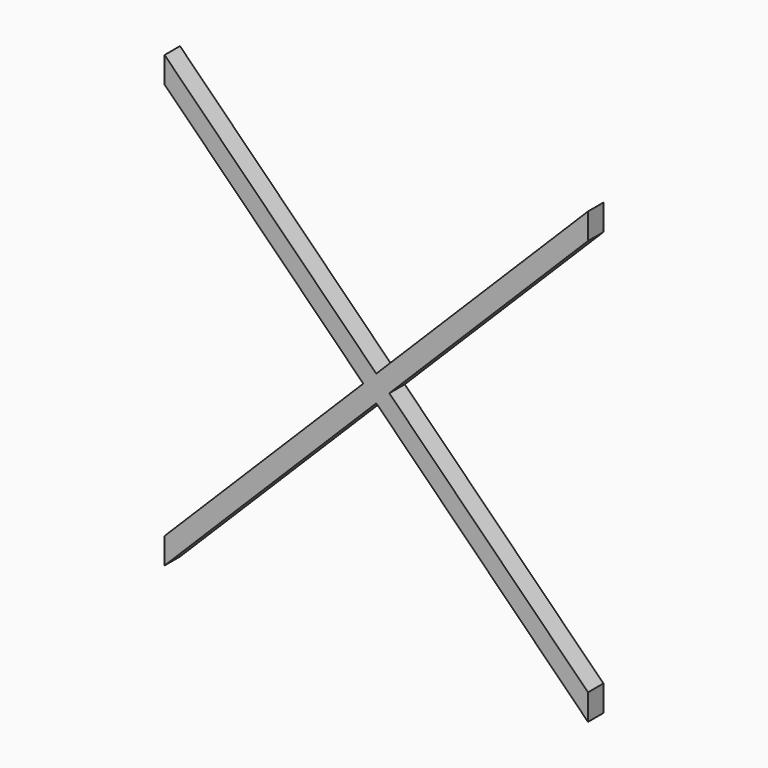
from build123d import *

# Parameters (mm, degrees)
F1_DEPTH = 12.7


with BuildPart() as f1:
    # F0 (on Front) → F1 (new body)
    with BuildSketch(Plane.XZ):
        Polygon((0, 8.5898101), (0, 0), (135.4050932787, 135.4050932787), (131.1101882287, 139.6999983287), align=None)
        Polygon((135.4050932787, 135.4050932787), (0, 0), (0, -8.5898101), (8.5898101, 0), (139.6999983287, 131.1101882287), align=None)
        Polygon((131.1101882287, 139.6999983287), (135.4050932787, 135.4050932787), (139.6999983287, 139.6999983287), (135.4050932787, 143.9949033787), align=None)
        Polygon((139.6999983287, 139.6999983287), (135.4050932787, 135.4050932787), (139.6999983287, 131.1101882287), (143.9949033787, 135.4050932787), align=None)
        Polygon((0, 270.8101865575), (131.1101882287, 139.6999983287), (135.4050932787, 143.9949033787), (0, 279.3999966575), align=None)
        Polygon((143.9949033787, 143.9949033787), (139.6999983287, 139.6999983287), (143.9949033787, 135.4050932787), (148.2898084287, 139.6999983287), align=None)
        Polygon((135.4050932787, 143.9949033787), (139.6999983287, 139.6999983287), (143.9949033787, 143.9949033787), (139.6999983287, 148.2898084287), align=None)
        Polygon((143.9949033787, 135.4050932787), (139.6999983287, 131.1101882287), (270.8101865575, 0), (279.3999966575, -8.5898101), (279.3999966575, 0), align=None)
        Polygon((0, 279.3999966575), (135.4050932787, 143.9949033787), (139.6999983287, 148.2898084287), (4.29490505, 283.6949017075), (0, 287.9898067575), align=None)
        Polygon((148.2898084287, 139.6999983287), (143.9949033787, 135.4050932787), (279.3999966575, 0), (279.3999966575, 8.5898101), align=None)
        Polygon((139.6999983287, 148.2898084287), (143.9949033787, 143.9949033787), (279.3999966575, 279.3999966575), (279.3999966575, 287.9898067575), (275.1050916075, 283.6949017075), align=None)
        Polygon((279.3999966575, 279.3999966575), (143.9949033787, 143.9949033787), (148.2898084287, 139.6999983287), (279.3999966575, 270.8101865575), align=None)
    extrude(amount=F1_DEPTH)


solid = f1.part
